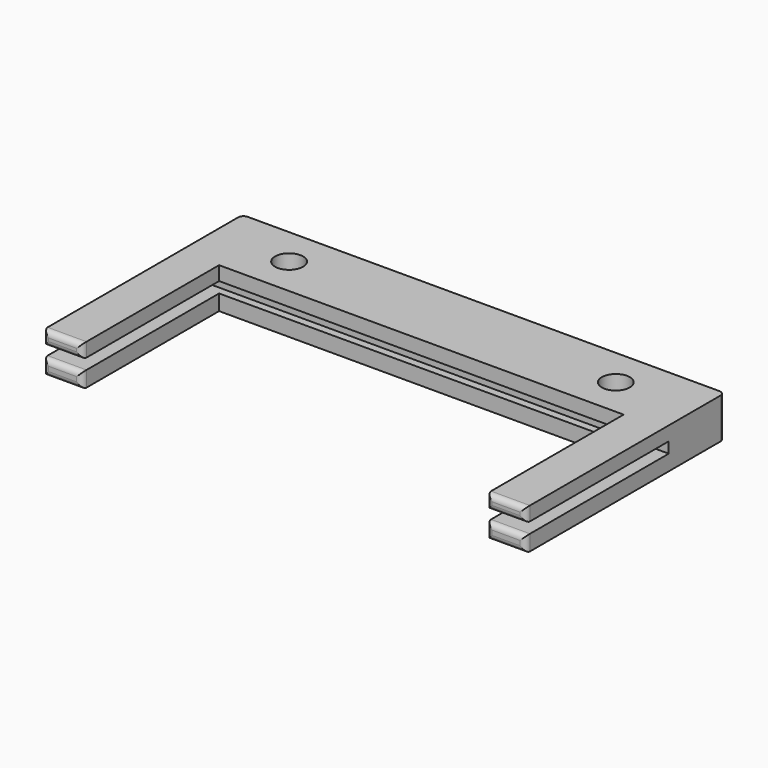
from build123d import *

# Parameters (mm, degrees)
CYLINDER051_R       = 1.8
CYLINDER051_DEPTH   = 20
ARRAY001022_X_COUNT = 2
ARRAY001022_X_PITCH = 42
BOX022_W            = 122
BOX022_H            = 23
BOX022_DEPTH        = 1.4
BOX020_W            = 52
BOX020_H            = 22
BOX020_DEPTH        = 20
BOX019_W            = 62
BOX019_H            = 32
BOX019_DEPTH        = 5.2
FILLET010_R         = 0.7


with BuildPart() as obj1:
    # Cylinder051 → Cylinder051 (new body)
    with BuildSketch(Plane(origin=(10, 27, -5), x_dir=(1, 0, 0), z_dir=(0, 0, 1))):
        Circle(CYLINDER051_R)
    extrude(amount=CYLINDER051_DEPTH)

    # Array001022 X: obj1 ×2


with BuildPart() as obj1_1:
    add(obj1.part)
    with Locations(*[(i * ARRAY001022_X_PITCH, 0, 0) for i in range(1, ARRAY001022_X_COUNT)]):
        add(obj1.part)


with BuildPart() as obj2:
    # Box022 → Box022 (new body)
    with BuildSketch(Plane(origin=(-25, 0, 2), x_dir=(1, 0, 0), z_dir=(0, 0, 1))):
        with Locations((61, 11.5)):
            Rectangle(BOX022_W, BOX022_H)
    extrude(amount=BOX022_DEPTH)


with BuildPart() as obj3:
    # Box020 → Box020 (new body)
    with BuildSketch(Plane(origin=(5, 0, -10), x_dir=(1, 0, 0), z_dir=(0, 0, 1))):
        with Locations((26, 11)):
            Rectangle(BOX020_W, BOX020_H)
    extrude(amount=BOX020_DEPTH)

    # Fusion033: union obj2
    add(obj2.part)


with BuildPart() as obj4:
    # Box019 → Box019 (new body)
    with BuildSketch(Plane.XY):
        with Locations((31, 16)):
            Rectangle(BOX019_W, BOX019_H)
    extrude(amount=BOX019_DEPTH)

    # Cut019: cut obj3
    add(obj3.part, mode=Mode.SUBTRACT)

    # Fillet010
    fillet010_edges = [obj4.edges().sort_by_distance(p)[0] for p in [
        (0, 0, 1),
        (0, 0, 4.3),
        (0, 32, 2.6),
        (2.5, 0, 0),
        (5, 0, 1),
        (2.5, 0, 2),
        (59.5, 0, 2),
        (59.5, 0, 3.4),
        (2.5, 0, 3.4),
        (5, 0, 4.3),
        (2.5, 0, 5.2),
        (59.5, 0, 5.2),
        (62, 32, 2.6),
        (59.5, 0, 0),
        (62, 0, 1),
        (62, 0, 4.3),
        (57, 0, 1),
        (57, 0, 4.3),
    ]]
    fillet(fillet010_edges, radius=FILLET010_R)

    # Cut020: cut obj1
    add(obj1_1.part, mode=Mode.SUBTRACT)


solid = obj4.part
